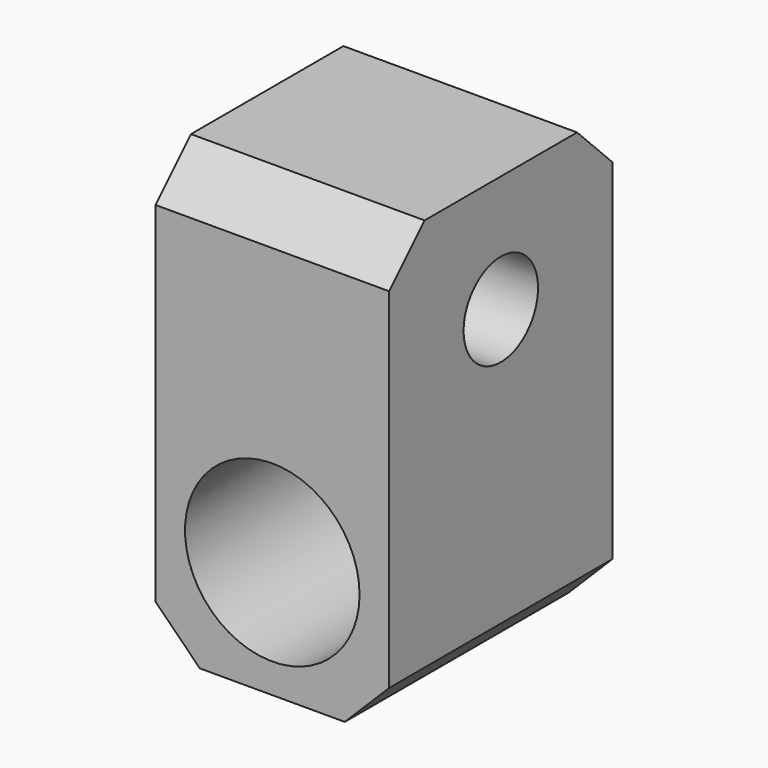
from build123d import *

# Parameters (mm, degrees)
F1_DEPTH = 24
F2_R     = 4
F3_DEPTH = 25.4
F4_SIZE  = 3.81


with BuildPart() as f1:
    # F0 (on Front) → F1 (new body)
    with BuildSketch(Plane.XZ):
        with BuildLine():
            Line((0, 37.6314), (0, 0))
            Line((0, 0), (10.04, 0))
            Line((10.04, 0), (10.04, 2.54))
            ThreePointArc((10.04, 2.54), (2.54, 10.04), (10.04, 17.54))
            ThreePointArc((10.04, 17.54), (15.3433008589, 15.3433008589), (17.54, 10.04))
            Line((17.54, 10.04), (20.08, 10.04))
            Line((20.08, 10.04), (20.08, 37.6314))
            Line((20.08, 37.6314), (0, 37.6314))
        make_face()
        with BuildLine():
            ThreePointArc((17.5457, 27.5857), (15.3473313676, 22.2783686324), (10.04, 20.08))
            ThreePointArc((10.04, 20.08), (4.7326686324, 32.8930313676), (17.5457, 27.5857))
        make_face(mode=Mode.SUBTRACT)
        with BuildLine():
            ThreePointArc((17.5457, 27.5857), (4.7326686324, 32.8930313676), (10.04, 20.08))
            ThreePointArc((10.04, 20.08), (15.3473313676, 22.2783686324), (17.5457, 27.5857))
        make_face()
        with BuildLine():
            ThreePointArc((14.04, 27.5857), (12.8684271247, 24.7572728753), (10.04, 23.5857))
            ThreePointArc((10.04, 23.5857), (7.2115728753, 30.4141271247), (14.04, 27.5857))
        make_face(mode=Mode.SUBTRACT)
        with BuildLine():
            Line((10.04, 2.54), (10.04, 0))
            Line((10.04, 0), (20.08, 0))
            Line((20.08, 0), (20.08, 10.04))
            Line((20.08, 10.04), (17.54, 10.04))
            ThreePointArc((17.54, 10.04), (15.3433008589, 4.7366991411), (10.04, 2.54))
        make_face()
        with BuildLine():
            ThreePointArc((14.04, 27.5857), (7.2115728753, 30.4141271247), (10.04, 23.5857))
            ThreePointArc((10.04, 23.5857), (12.8684271247, 24.7572728753), (14.04, 27.5857))
        make_face()
    extrude(amount=F1_DEPTH)

    # F2 (on face) → F3 (cut)
    with BuildSketch(Plane(origin=(0, 0, 0), x_dir=(0, -1, 0), z_dir=(-1, 0, 0))):
        with Locations((12, 27.573)):
            Circle(F2_R)
    extrude(amount=-F3_DEPTH, mode=Mode.SUBTRACT)

    # F4
    f4_edges = [f1.edges().sort_by_distance(p)[0] for p in [
        (10.04, 0, 37.6314),
        (0, -12, 0),
        (10.04, -24, 37.6314),
        (20.08, -12, 0),
    ]]
    chamfer(f4_edges, length=F4_SIZE)


solid = f1.part
